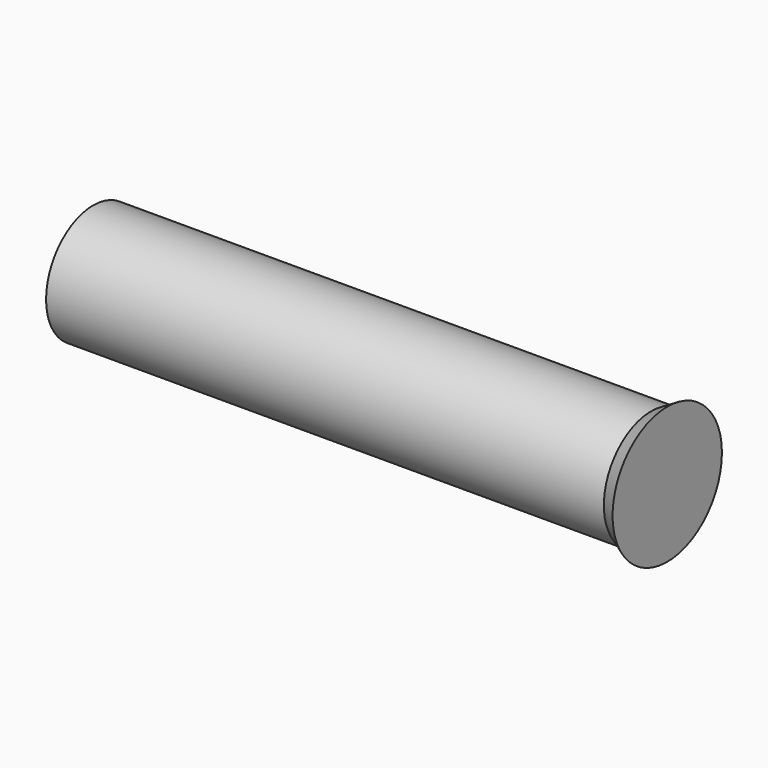
from build123d import *

# Parameters (mm, degrees)
F0_R     = 1.9939
F1_DEPTH = 19.9644


with BuildPart() as f1:
    # F0 (on Right) → F1 (new body)
    with BuildSketch(Plane.YZ):
        Circle(F0_R)
    extrude(amount=-F1_DEPTH)

    # F2 (on Top) → F3 (revolve)
    with BuildSketch(Plane.XY):
        Polygon((-0.549926, 1.9939), (-0.594271, 1.9939), (-0.594271, 0), (0, 0), (0, 1.9939), (0, 2.3114), align=None)
    revolve(axis=Axis((-0.297135, 0, 0), (-1, 0, 0)))

    # F4 (on Top) → F5 (revolve, cut)
    with BuildSketch(Plane.XY):
        with BuildLine():
            Line((-19.939, 0), (-19.9644, 0))
            Line((-19.9644, 0), (-19.9644, -1.9939))
            Line((-19.9644, -1.9939), (-19.416251, -1.9939))
            ThreePointArc((-19.416251, -1.9939), (-19.806141, -1.030643), (-19.939, 0))
        make_face()
    revolve(axis=Axis((-19.9517, 0, 0), (1, 0, 0)), mode=Mode.SUBTRACT)


solid = f1.part
